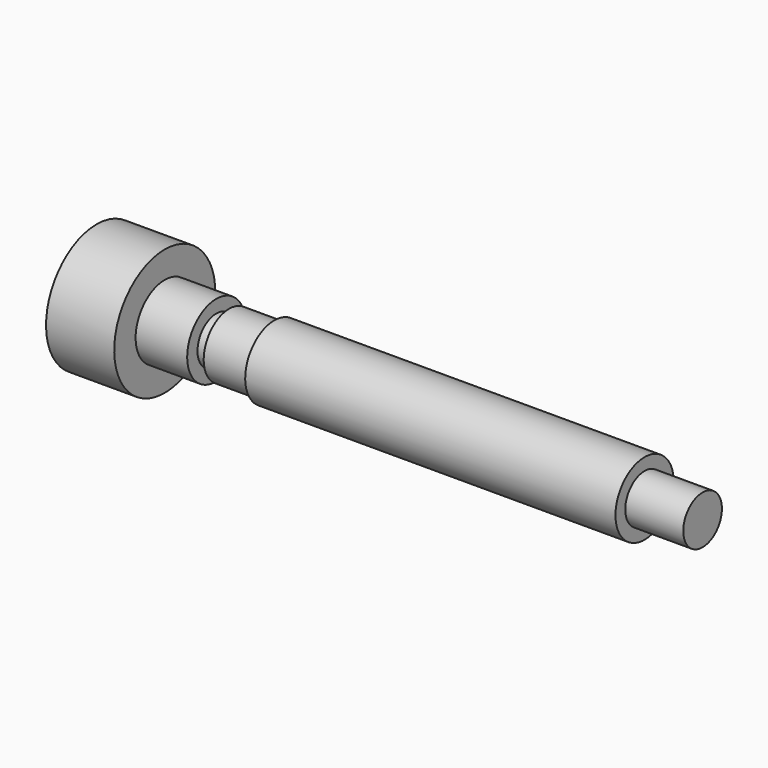
from build123d import *


with BuildPart() as f1:
    # F0 (on Front) → F1 (revolve)
    with BuildSketch(Plane.XZ):
        with BuildLine():
            Line((3.302, 2.4892), (0.615722, 2.4892))
            ThreePointArc((0.615722, 2.4892), (0.156216, 1.282111), (0, 0))
            Line((0, 0), (24.4983, 0))
            Line((24.4983, 0), (24.4983, 0.9525))
            Line((24.4983, 0.9525), (22.2123, 0.9525))
            Line((22.2123, 0.9525), (22.2123, 1.4351))
            Line((22.2123, 1.4351), (7.62, 1.4351))
            Line((7.62, 1.4351), (7.62, 1.2573))
            Line((7.62, 1.2573), (5.842, 1.2573))
            Line((5.842, 1.2573), (5.842, 0.9271))
            Line((5.842, 0.9271), (5.334, 0.9271))
            Line((5.334, 0.9271), (5.334, 1.4351))
            Line((5.334, 1.4351), (3.302, 1.4351))
            Line((3.302, 1.4351), (3.302, 2.4892))
        make_face()
    revolve(axis=Axis((12.24915, 0, 0), (-1, 0, 0)))


solid = f1.part
